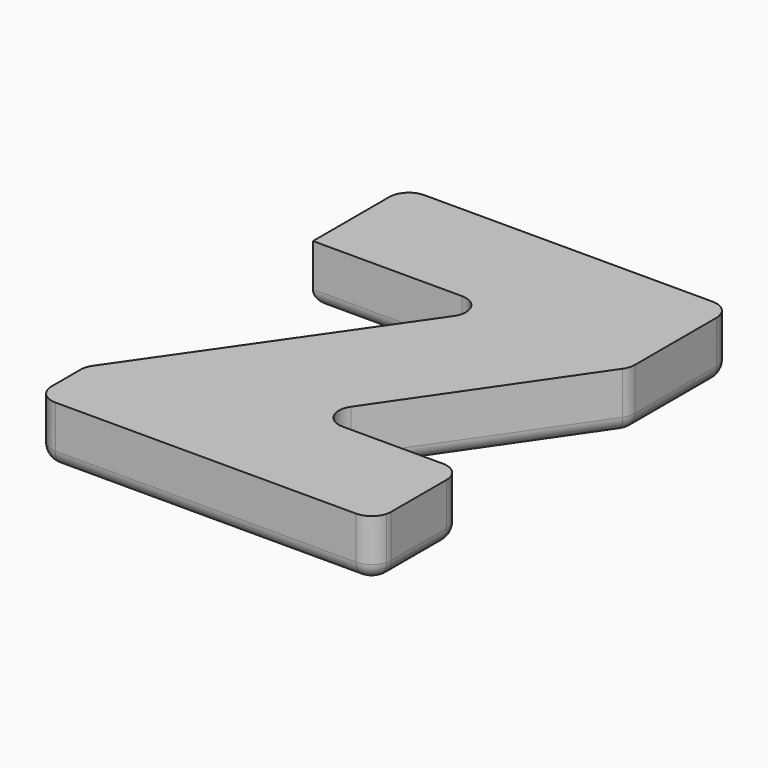
from build123d import *

# Parameters (mm, degrees)
F1_DEPTH = 19.05
F2_R     = 5.08


with BuildPart() as f1:
    # F0 (on Top) → F1 (new body)
    with BuildSketch(Plane.XY):
        with BuildLine():
            Line((14.9550589674, 50.2520292753), (-54.5516210822, 50.2520292753))
            Line((-54.5516210822, 50.2520292753), (-54.5516210822, 38.1094498451))
            Line((-54.5516210822, 38.1094498451), (-5.7937513614, 38.1094498451))
            ThreePointArc((-5.7937513614, 38.1094498451), (-0.1681561255, 34.7048153982), (-0.5750318579, 28.1417894487))
            Line((-0.5750318579, 28.1417894487), (-17.6851839396, 3.4592392383))
            Line((-17.6851839396, 3.4592392383), (14.9550589674, 50.2520292753))
        make_face()
        with BuildLine():
            ThreePointArc((-48.2016210822, 75.7045095678), (-52.6917491428, 73.8446376283), (-54.5516210822, 69.3545095678))
            Line((-54.5516210822, 69.3545095678), (-54.5516210822, 50.2520292753))
            Line((-54.5516210822, 50.2520292753), (14.9550589674, 50.2520292753))
            Line((14.9550589674, 50.2520292753), (-17.6851839396, 3.4592392383))
            Line((-17.6851839396, 3.4592392383), (-55.3482900739, -50.8723355951))
            ThreePointArc((-55.3482900739, -50.8723355951), (-56.1901550656, -52.5947874076), (-56.4795705704, -54.4899959914))
            Line((-56.4795705704, -54.4899959914), (-56.4795705704, -66.3977798347))
            ThreePointArc((-56.4795705704, -66.3977798347), (-54.6196986309, -70.8879078953), (-50.1295705704, -72.7477798347))
            Line((-50.1295705704, -72.7477798347), (48.2686518641, -72.7477798347))
            ThreePointArc((48.2686518641, -72.7477798347), (52.1466655513, -71.4260508936), (54.4102909159, -68.0110900211))
            Line((54.4102909159, -68.0110900211), (54.4102909159, -46.6400994718))
            Line((54.4102909159, -46.6400994718), (-18.9196563035, -46.6400994718))
            Line((-18.9196563035, -46.6400994718), (52.4497096213, 55.9125908699))
            Line((52.4497096213, 55.9125908699), (52.4497096213, 69.3545095678))
            ThreePointArc((52.4497096213, 69.3545095678), (50.5898376818, 73.8446376283), (46.0997096213, 75.7045095678))
            Line((46.0997096213, 75.7045095678), (-48.2016210822, 75.7045095678))
        make_face()
        with BuildLine():
            Line((52.4497096213, 35.9703072308), (52.4497096213, 55.9125908699))
            Line((52.4497096213, 55.9125908699), (-18.9196563035, -46.6400994718))
            Line((-18.9196563035, -46.6400994718), (54.4102909159, -46.6400994718))
            Line((54.4102909159, -46.6400994718), (54.4102909159, -68.0110900211))
            ThreePointArc((54.4102909159, -68.0110900211), (54.5663462033, -67.2111346224), (54.6186518641, -66.3977798347))
            Line((54.6186518641, -66.3977798347), (54.6186518641, -43.6716623549))
            ThreePointArc((54.6186518641, -43.6716623549), (52.7587799247, -39.1815342944), (48.2686518641, -37.3216623549))
            Line((48.2686518641, -37.3216623549), (15.5238411508, -37.3216623549))
            ThreePointArc((15.5238411508, -37.3216623549), (9.9045362797, -33.929011297), (10.2897481379, -27.3762805487))
            Line((10.2897481379, -27.3762805487), (51.3338026341, 32.3749254245))
            ThreePointArc((51.3338026341, 32.3749254245), (52.1643196925, 34.0880201421), (52.4497096213, 35.9703072308))
        make_face()
    extrude(amount=F1_DEPTH)

    # F2
    f2_edges = [f1.edges().sort_by_distance(p)[0] for p in [
        (-30.172686, 38.10945, 0),
        (-0.168156, 34.704815, 0),
        (-27.961661, -11.365273, 0),
        (-56.190155, -52.594787, 0),
        (-56.479571, -60.443888, 0),
        (-54.619699, -70.887908, 0),
        (-0.930459, -72.74778, 0),
        (52.75878, -70.887908, 0),
        (54.618652, -55.034721, 0),
        (52.75878, -39.181534, 0),
        (31.896247, -37.321662, 0),
        (9.904536, -33.929011, 0),
        (30.811775, 2.499322, 0),
        (52.16432, 34.08802, 0),
        (52.44971, 52.662408, 0),
        (50.589838, 73.844638, 0),
        (-1.050956, 75.70451, 0),
        (-52.691749, 73.844638, 0),
        (-54.551621, 53.73198, 0),
    ]]
    fillet(f2_edges, radius=F2_R)


solid = f1.part
